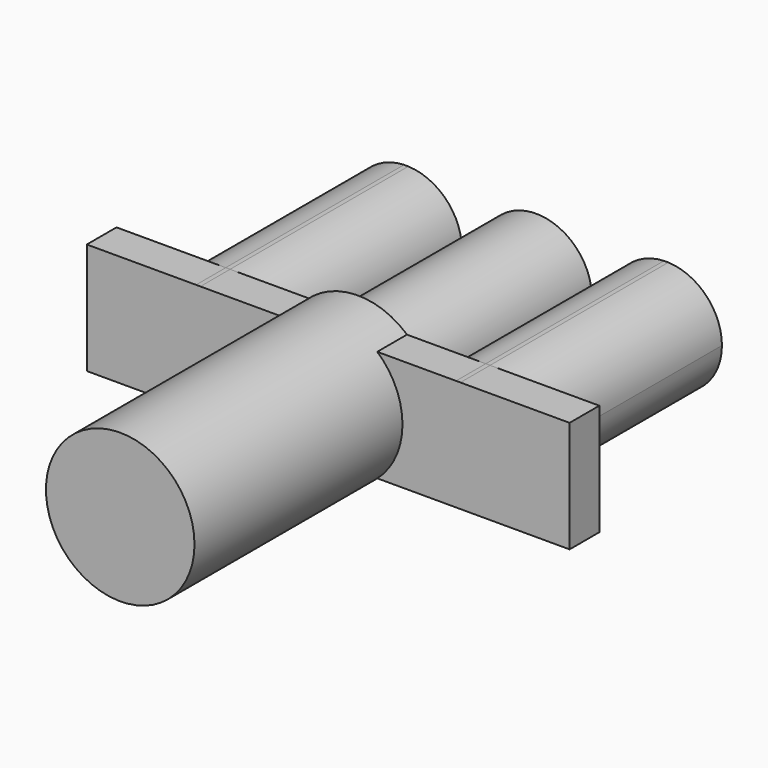
from build123d import *

# Parameters (mm, degrees)
F1_DEPTH = 5
F2_DEPTH = 30
F3_R     = 10
F4_DEPTH = 40


with BuildPart() as f1:
    # F0 (on Front) → F1 (new body)
    with BuildSketch(Plane.XZ):
        with BuildLine():
            Line((-17.7924593818, 7.5), (-32.5, 7.5))
            Line((-32.5, 7.5), (-32.5, -7.5))
            Line((-32.5, -7.5), (-17.7924593818, -7.5))
            ThreePointArc((-17.7924593818, -7.5), (-25.0057, 0), (-17.7924593818, 7.5))
        make_face()
        with BuildLine():
            Line((0, 7.5), (-17.2075406182, 7.5))
            ThreePointArc((-17.2075406182, 7.5), (-12.0902567126, 5.202904002), (-9.9943, 0))
            ThreePointArc((-9.9943, 0), (-12.0902567126, -5.202904002), (-17.2075406182, -7.5))
            Line((-17.2075406182, -7.5), (-2.86e-08, -7.5))
            ThreePointArc((-2.86e-08, -7.5), (-7.5, 1.43e-08), (0, 7.5))
        make_face()
        with BuildLine():
            Line((17.2081406182, 7.5), (0, 7.5))
            ThreePointArc((0, 7.5), (5.3033008589, 5.3033008589), (7.5, 0))
            ThreePointArc((7.5, 0), (5.3033008488, -5.303300869), (-2.86e-08, -7.5))
            Line((-2.86e-08, -7.5), (17.2081406182, -7.5))
            ThreePointArc((17.2081406182, -7.5), (9.9949, 0), (17.2081406182, 7.5))
        make_face()
        with BuildLine():
            Line((32.5, 7.5), (17.7930593818, 7.5))
            ThreePointArc((17.7930593818, 7.5), (22.9103432874, 5.202904002), (25.0063, 0))
            ThreePointArc((25.0063, 0), (22.9103432874, -5.202904002), (17.7930593818, -7.5))
            Line((17.7930593818, -7.5), (32.5, -7.5))
            Line((32.5, -7.5), (32.5, 7.5))
        make_face()
        with BuildLine():
            Line((17.7930593818, -7.5), (17.2081406182, -7.5))
            ThreePointArc((17.2081406182, -7.5), (17.5006, -7.5057), (17.7930593818, -7.5))
        make_face()
        with BuildLine():
            ThreePointArc((17.7930593818, 7.5), (17.5006, 7.5057), (17.2081406182, 7.5))
            Line((17.2081406182, 7.5), (17.7930593818, 7.5))
        make_face()
        with BuildLine():
            ThreePointArc((-17.2075406182, 7.5), (-17.5, 7.5057), (-17.7924593818, 7.5))
            Line((-17.7924593818, 7.5), (-17.2075406182, 7.5))
        make_face()
        with BuildLine():
            Line((-17.2075406182, -7.5), (-17.7924593818, -7.5))
            ThreePointArc((-17.7924593818, -7.5), (-17.5, -7.5057), (-17.2075406182, -7.5))
        make_face()
        with BuildLine():
            Line((-17.2075406182, 7.5), (-17.7924593818, 7.5))
            ThreePointArc((-17.7924593818, 7.5), (-25.0057, 0), (-17.7924593818, -7.5))
            Line((-17.7924593818, -7.5), (-17.2075406182, -7.5))
            ThreePointArc((-17.2075406182, -7.5), (-12.0902567126, -5.202904002), (-9.9943, 0))
            ThreePointArc((-9.9943, 0), (-12.0902567126, 5.202904002), (-17.2075406182, 7.5))
        make_face()
        with BuildLine():
            ThreePointArc((7.5, 0), (5.3033008589, 5.3033008589), (0, 7.5))
            ThreePointArc((0, 7.5), (-7.5, 1.43e-08), (-2.86e-08, -7.5))
            ThreePointArc((-2.86e-08, -7.5), (5.3033008488, -5.303300869), (7.5, 0))
        make_face()
        with BuildLine():
            Line((17.7930593818, 7.5), (17.2081406182, 7.5))
            ThreePointArc((17.2081406182, 7.5), (9.9949, 0), (17.2081406182, -7.5))
            Line((17.2081406182, -7.5), (17.7930593818, -7.5))
            ThreePointArc((17.7930593818, -7.5), (22.9103432874, -5.202904002), (25.0063, 0))
            ThreePointArc((25.0063, 0), (22.9103432874, 5.202904002), (17.7930593818, 7.5))
        make_face()
    extrude(amount=F1_DEPTH)


with BuildPart() as f2:
    # F0 (on Front) → F2 (new body)
    with BuildSketch(Plane.XZ):
        with BuildLine():
            Line((-17.2075406182, 7.5), (-17.7924593818, 7.5))
            ThreePointArc((-17.7924593818, 7.5), (-25.0057, 0), (-17.7924593818, -7.5))
            Line((-17.7924593818, -7.5), (-17.2075406182, -7.5))
            ThreePointArc((-17.2075406182, -7.5), (-12.0902567126, -5.202904002), (-9.9943, 0))
            ThreePointArc((-9.9943, 0), (-12.0902567126, 5.202904002), (-17.2075406182, 7.5))
        make_face()
    extrude(amount=-F2_DEPTH)


with BuildPart() as f2b:
    # F0 (on Front) → F2, piece 2 (new body)
    with BuildSketch(Plane.XZ):
        with BuildLine():
            ThreePointArc((7.5, 0), (5.3033008589, 5.3033008589), (0, 7.5))
            ThreePointArc((0, 7.5), (-7.5, 1.43e-08), (-2.86e-08, -7.5))
            ThreePointArc((-2.86e-08, -7.5), (5.3033008488, -5.303300869), (7.5, 0))
        make_face()
    extrude(amount=-F2_DEPTH)


with BuildPart() as f2c:
    # F0 (on Front) → F2, piece 3 (new body)
    with BuildSketch(Plane.XZ):
        with BuildLine():
            Line((17.7930593818, 7.5), (17.2081406182, 7.5))
            ThreePointArc((17.2081406182, 7.5), (9.9949, 0), (17.2081406182, -7.5))
            Line((17.2081406182, -7.5), (17.7930593818, -7.5))
            ThreePointArc((17.7930593818, -7.5), (22.9103432874, -5.202904002), (25.0063, 0))
            ThreePointArc((25.0063, 0), (22.9103432874, 5.202904002), (17.7930593818, 7.5))
        make_face()
    extrude(amount=-F2_DEPTH)


with BuildPart() as f4:
    # F3 (on Front) → F4 (new body)
    with BuildSketch(Plane.XZ):
        Circle(F3_R)
    extrude(amount=F4_DEPTH)


solid = Compound([f1.part, f2.part, f2b.part, f2c.part, f4.part])
